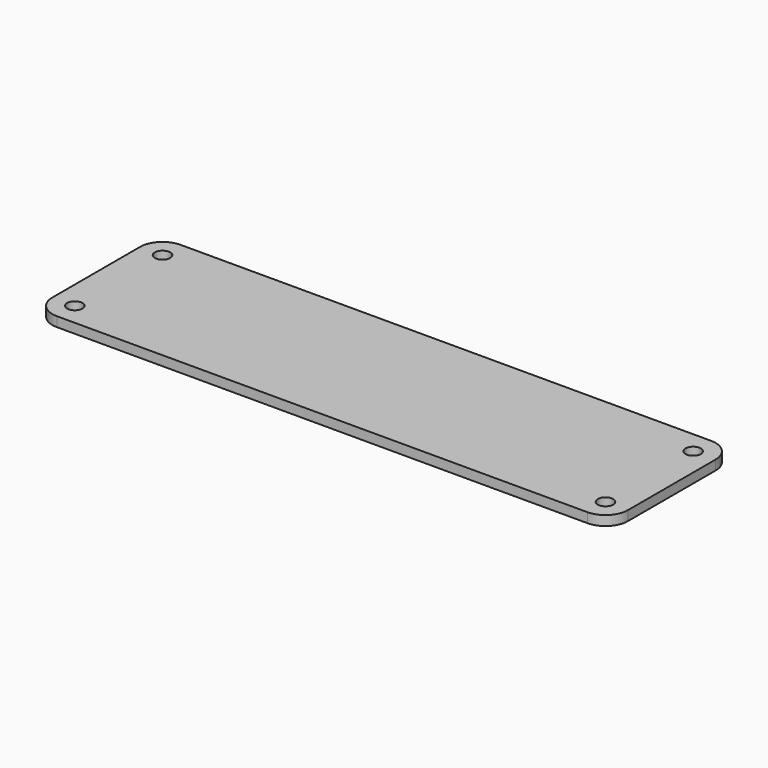
from build123d import *

# Parameters (mm, degrees)
F0_W     = 101.6
F0_H     = 27.28186
F0_R     = 1.35255
F1_DEPTH = 1.70942
F2_R     = 3.96875


with BuildPart() as f1:
    # F0 (on Top) → F1 (new body)
    with BuildSketch(Plane.XY):
        Rectangle(F0_W, F0_H)
        with Locations((-46.83125, -9.67218)):
            Circle(F0_R, mode=Mode.SUBTRACT)
        with Locations((46.83125, -9.67218)):
            Circle(F0_R, mode=Mode.SUBTRACT)
        with Locations((-46.83125, 9.67218)):
            Circle(F0_R, mode=Mode.SUBTRACT)
        with Locations((46.83125, 9.67218)):
            Circle(F0_R, mode=Mode.SUBTRACT)
    extrude(amount=F1_DEPTH)

    # F2
    f2_edges = [f1.edges().sort_by_distance(p)[0] for p in [
        (-50.8, 13.64093, 0.85471),
        (-50.8, -13.64093, 0.85471),
        (50.8, -13.64093, 0.85471),
        (50.8, 13.64093, 0.85471),
    ]]
    fillet(f2_edges, radius=F2_R)


solid = f1.part
